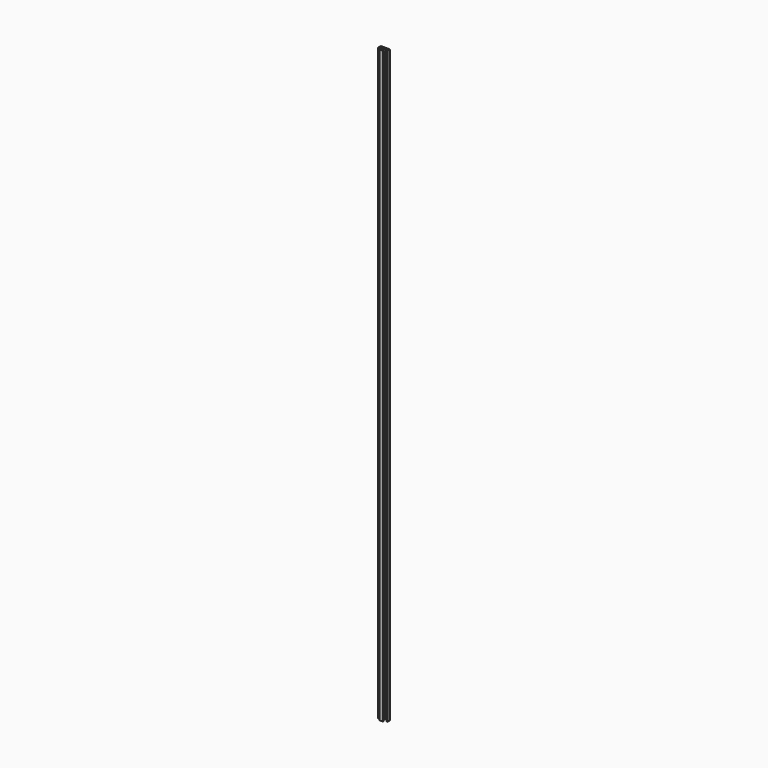
from build123d import *

# Parameters (mm, degrees)
F1_DEPTH = 2550
F2_R     = 2
F3_R     = 1


with BuildPart() as f1:
    # F0 (on Top) → F1 (new body)
    with BuildSketch(Plane.XY):
        Polygon((20, 10), (-20, 10), (-20, -5), (-17, -5), (-17, 7), (-2, 7), (-2, -9.5), (-8.5, -9.5), (-8.5, -12.5), (0, -12.5), (8.5, -12.5), (8.5, -9.5), (2, -9.5), (2, 7), (17, 7), (17, -5), (20, -5), align=None)
    extrude(amount=F1_DEPTH)

    # F2
    f2_edges = [f1.edges().sort_by_distance(p)[0] for p in [
        (-20, 10, 1275),
        (20, 10, 1275),
    ]]
    fillet(f2_edges, radius=F2_R)

    # F3
    f3_edges = [f1.edges().sort_by_distance(p)[0] for p in [
        (-20, -5, 1275),
        (-17, -5, 1275),
        (-17, 7, 1275),
        (2, 7, 1275),
        (17, -5, 1275),
        (20, -5, 1275),
        (8.5, -12.5, 1275),
        (8.5, -9.5, 1275),
        (-8.5, -12.5, 1275),
        (-8.5, -9.5, 1275),
        (-2, 7, 1275),
        (17, 7, 1275),
        (2, -9.5, 1275),
        (-2, -9.5, 1275),
    ]]
    fillet(f3_edges, radius=F3_R)


solid = f1.part
